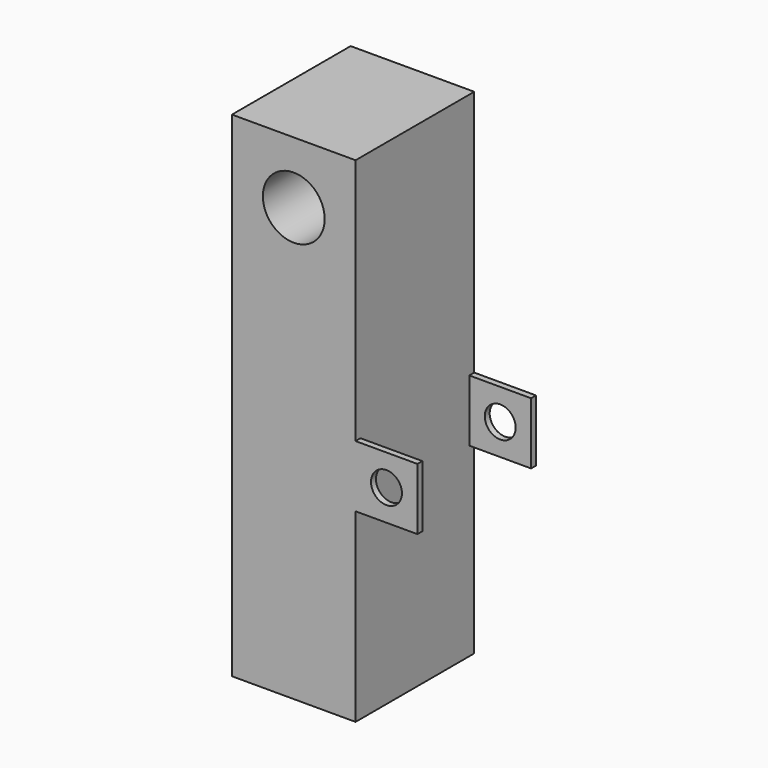
from build123d import *

# Parameters (mm, degrees)
F0_W     = 25.4
F0_H     = 25.4
F0_R     = 6.35
F0_W_2   = 12.7
F0_H_2   = 12.7
F0_R_2   = 3.175
F1_DEPTH = 30.48
F2_W     = 27.94
F2_H     = 12.7
F3_DEPTH = 12.7


with BuildPart() as f1:
    # F0 (on Front) → F1 (new body)
    with BuildSketch(Plane.XZ):
        with Locations((0, 38.1)):
            Rectangle(F0_W, F0_H)
        with Locations((0, 38.1)):
            Circle(F0_R, mode=Mode.SUBTRACT)
        Polygon((12.7, 25.4), (-12.7, 25.4), (-12.7, -50.8), (12.7, -50.8), (12.7, -12.7), (12.7, 0), align=None)
        with Locations((19.05, -6.35)):
            Rectangle(F0_W_2, F0_H_2)
        with Locations((19.05, -6.35)):
            Circle(F0_R_2, mode=Mode.SUBTRACT)
    extrude(amount=F1_DEPTH)

    # F2 (on face) → F3 (cut)
    with BuildSketch(Plane.YZ.offset(25.4)):
        with Locations((-15.24, -6.35)):
            Rectangle(F2_W, F2_H)
    extrude(amount=-F3_DEPTH, mode=Mode.SUBTRACT)


solid = f1.part
